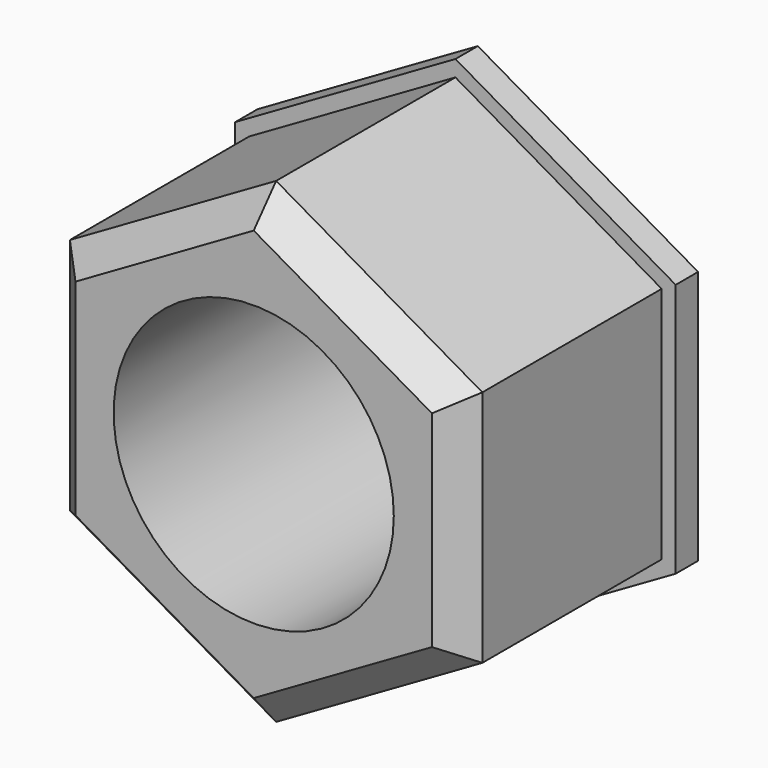
from build123d import *

# Parameters (mm, degrees)
F0_R     = 6.35
F1_DEPTH = 12.7
F2_SIZE  = 1.27
F4_DEPTH = 1.27


with BuildPart() as f1:
    # F0 (on Front) → F1 (new body)
    with BuildSketch(Plane.XZ):
        Polygon((9.348744, 5.3975), (0, 10.795), (-9.348744, 5.3975), (-9.348744, -5.3975), (0, -10.795), (9.348744, -5.3975), align=None)
        Circle(F0_R, mode=Mode.SUBTRACT)
    extrude(amount=F1_DEPTH)

    # F2
    f2_edges = [f1.edges().sort_by_distance(p)[0] for p in [
        (4.674372, -12.7, 8.09625),
        (9.348744, -12.7, 0),
        (4.674372, -12.7, -8.09625),
        (-4.674372, -12.7, -8.09625),
        (-9.348744, -12.7, 0),
        (-4.674372, -12.7, 8.09625),
    ]]
    chamfer(f2_edges, length=F2_SIZE)

    # F3 (on face) → F4 (join)
    with BuildSketch(Plane(origin=(0, 0, 0), x_dir=(-1, 0, 0), z_dir=(0, 1, 0))):
        Polygon((9.983744, -5.764117), (9.983744, 5.764117), (0, 11.528235), (-9.983744, 5.764117), (-9.983744, -5.764117), (0, -11.528235), align=None)
        Polygon((-9.348744, -5.3975), (-9.348744, 5.3975), (0, 10.795), (9.348744, 5.3975), (9.348744, -5.3975), (0, -10.795), align=None, mode=Mode.SUBTRACT)
    extrude(amount=-F4_DEPTH)


solid = f1.part
